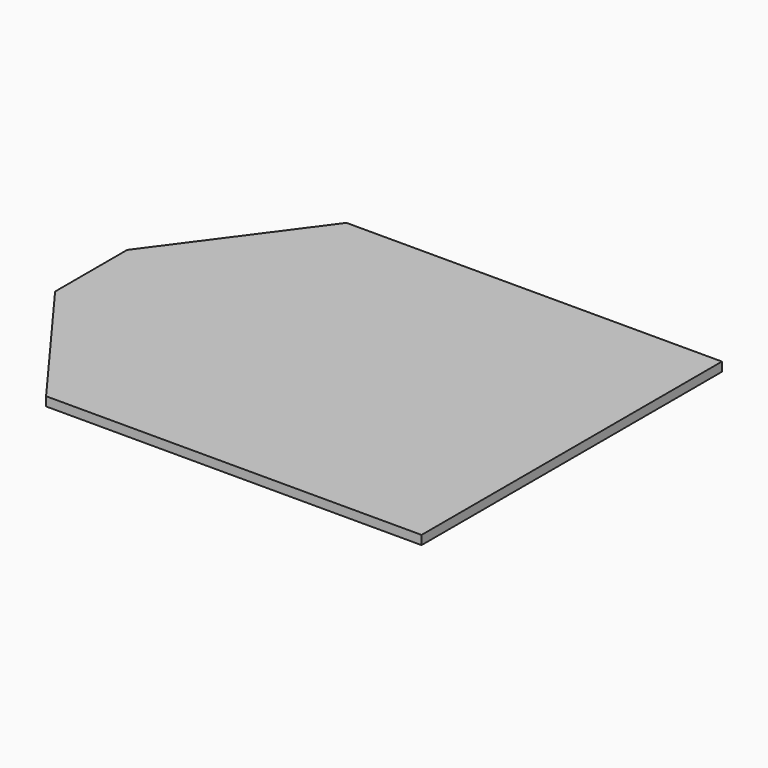
from build123d import *

# Parameters (mm, degrees)
F1_DEPTH = 12
F3_DEPTH = 25


with BuildPart() as f1:
    # F0 (on Top) → F1 (new body)
    with BuildSketch(Plane.XY):
        Polygon((320, 250), (-320, 250), (-320, 21.803056), (-320, -88.196944), (-320, -250), (320, -250), align=None)
    extrude(amount=F1_DEPTH)

    # F2 (on face) → F3 (cut)
    with BuildSketch(Plane.XY.offset(12)):
        Polygon((-320, 60), (-180, 250), (-320, 250), align=None)
        Polygon((-320, -250), (-180, -250), (-320, -60), align=None)
    extrude(amount=-F3_DEPTH, mode=Mode.SUBTRACT)


solid = f1.part
